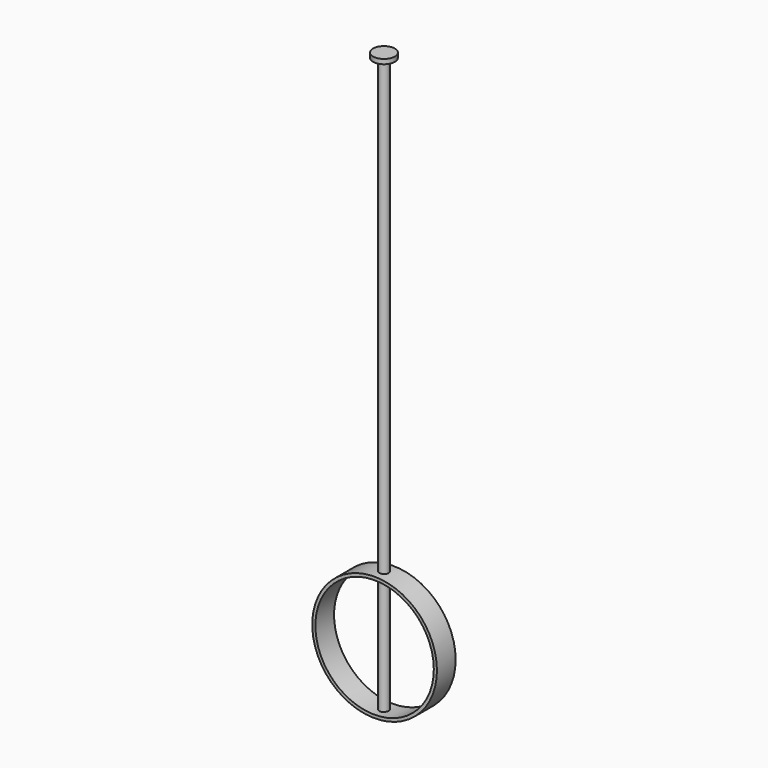
from build123d import *

# Parameters (mm, degrees)
CYLINDER040_R     = 3
CYLINDER040_DEPTH = 372
CYLINDER041_R     = 7
CYLINDER041_DEPTH = 3
TUBE004_R         = 40
TUBE004_R_2       = 38
TUBE004_DEPTH     = 15


with BuildPart() as pendulumshaft:
    # Cylinder040 → Cylinder040 (new body)
    with BuildSketch(Plane(origin=(0, 15, -439), x_dir=(1, 0, 0), z_dir=(0, 0, 1))):
        Circle(CYLINDER040_R)
    extrude(amount=CYLINDER040_DEPTH)


with BuildPart() as pendulumclampplate:
    # Cylinder041 → Cylinder041 (new body)
    with BuildSketch(Plane(origin=(0, 15, -70), x_dir=(1, 0, 0), z_dir=(0, 0, 1))):
        Circle(CYLINDER041_R)
    extrude(amount=CYLINDER041_DEPTH)


with BuildPart() as pendulum001:
    # Tube004 → Tube004 (new body)
    with BuildSketch(Plane(origin=(0, 22.5, -400), x_dir=(1, 0, 0), z_dir=(0, -1, 0))):
        Circle(TUBE004_R)
        Circle(TUBE004_R_2, mode=Mode.SUBTRACT)
    extrude(amount=TUBE004_DEPTH)

    # Fusion: union PendulumShaft, PendulumClampPlate
    add(pendulumshaft.part)
    add(pendulumclampplate.part)


solid = pendulum001.part
